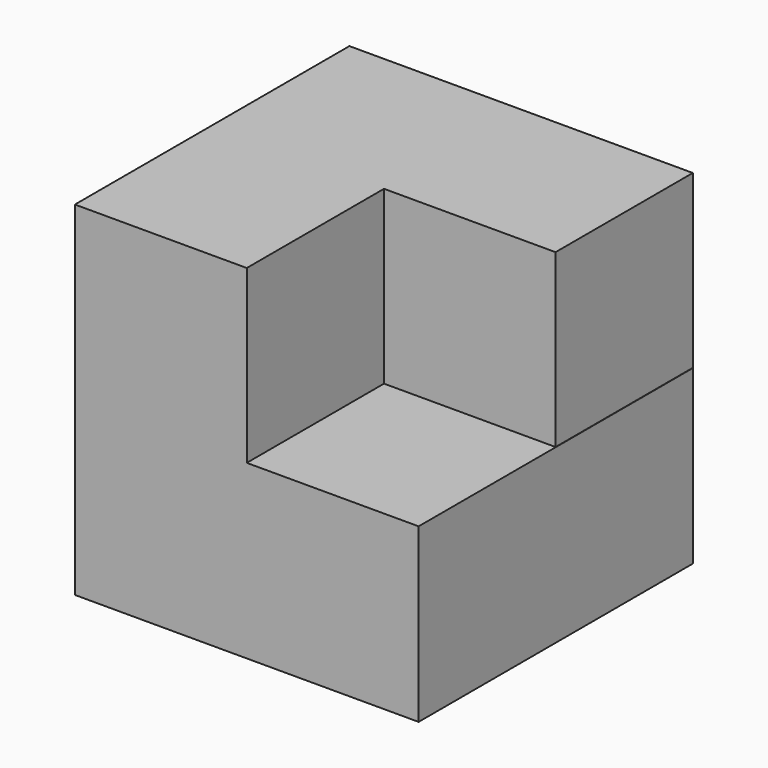
from build123d import *

# Parameters (mm, degrees)
F0_W     = 50.8894138038
F0_H     = 50.8894175291
F1_DEPTH = 50.8
F2_W     = 25.4447069019
F2_H     = 25.3969691694
F3_DEPTH = 50.8
F5_DEPTH = 25.4


with BuildPart() as f1:
    # F0 (on Front) → F1 (new body)
    with BuildSketch(Plane.XZ):
        with Locations((25.4447069019, 25.4447087646)):
            Rectangle(F0_W, F0_H)
    extrude(amount=F1_DEPTH)

    # F2 (on face) → F3 (cut)
    with BuildSketch(Plane.XZ.offset(50.8)):
        with Locations((38.1670603529, 38.1909329444)):
            Rectangle(F2_W, F2_H)
    extrude(amount=-F3_DEPTH, mode=Mode.SUBTRACT)

    # F4 (on face) → F5 (join)
    with BuildSketch(Plane.YZ.offset(25.4447069019)):
        Polygon((0, 50.8894175291), (-25.4, 50.8894175291), (-25.4, 25.4924483597), (0, 25.4924483597), (0, 29.243901372), (0, 43.372977525), align=None)
    extrude(amount=F5_DEPTH)


solid = f1.part
